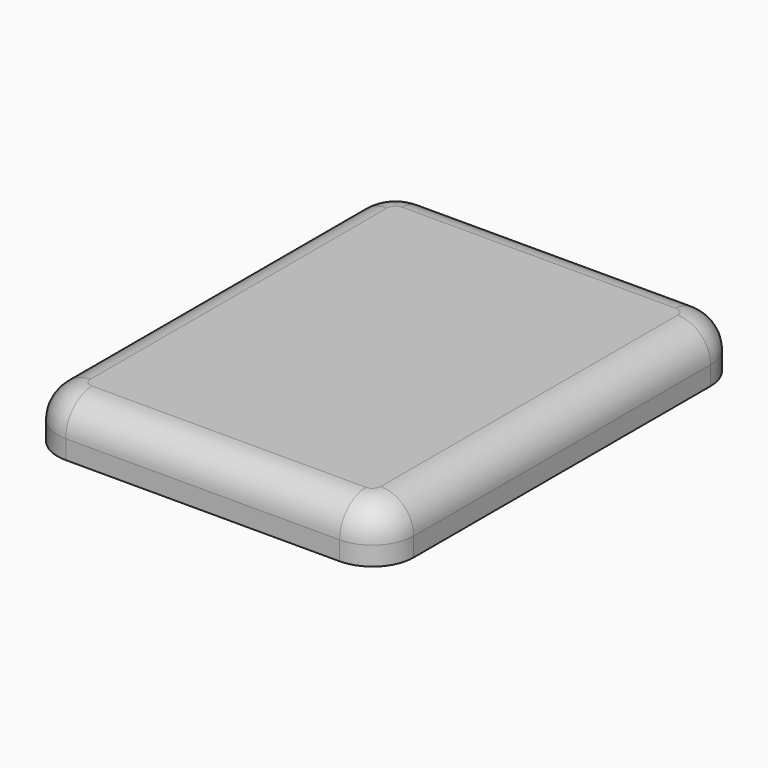
from build123d import *

# Parameters (mm, degrees)
F0_W     = 55
F0_H     = 8
F1_DEPTH = 70
F2_R     = 6.35
F3_R     = 5.08


with BuildPart() as f1:
    # F0 (on Front) → F1 (new body)
    with BuildSketch(Plane.XZ):
        Rectangle(F0_W, F0_H)
    extrude(amount=F1_DEPTH)

    # F2
    f2_edges = [f1.edges().sort_by_distance(p)[0] for p in [
        (-27.5, -70, 0),
        (27.5, -70, 0),
        (27.5, 0, 0),
        (-27.5, 0, 0),
    ]]
    fillet(f2_edges, radius=F2_R)

    # F3
    f3_edges = [f1.edges().sort_by_distance(p)[0] for p in [
        (27.5, -35, 4),
        (25.640128, -1.859872, 4),
        (25.640128, -68.140128, 4),
        (0, 0, 4),
        (0, -70, 4),
        (-25.640128, -1.859872, 4),
        (-25.640128, -68.140128, 4),
        (-27.5, -35, 4),
    ]]
    fillet(f3_edges, radius=F3_R)


solid = f1.part
